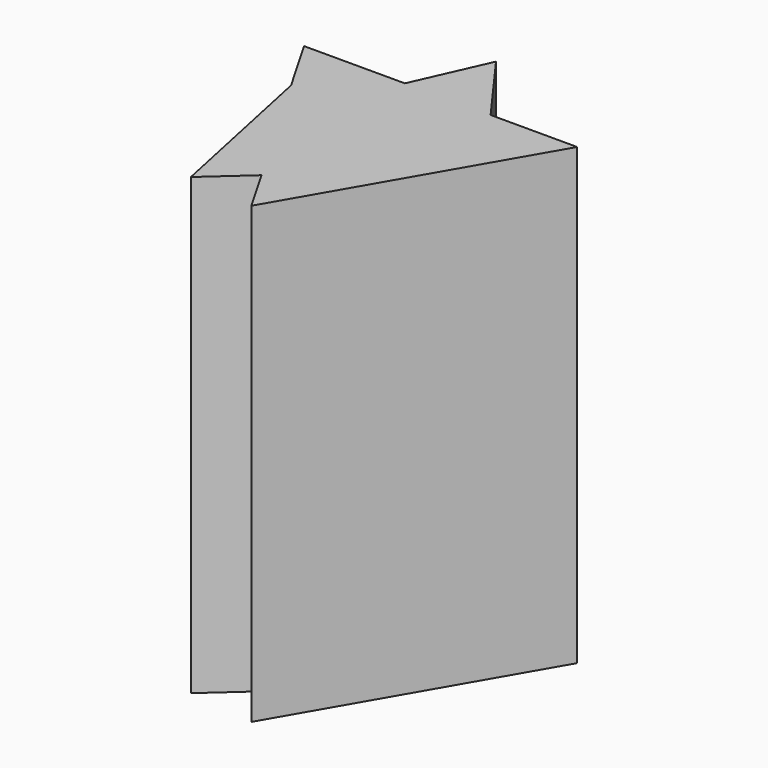
from build123d import *

# Parameters (mm, degrees)
F1_DEPTH = 2557.3923587799


with BuildPart() as f1:
    # F0 (on Top) → F1 (new body)
    with BuildSketch(Plane.XY):
        Polygon((-509.1280756642, 191.5158927441), (-1076.6804837309, 191.5158927441), (-887.7291746075, -135.7573748142), (-890.4924347892, -122.6169953793), (-679.7507416082, -191.5974846936), align=None)
        Polygon((51.318223764, -430.8927764446), (-455.1787140328, -884.9567493669), (-308.0508410931, -1139.7897005081), (202.0747097984, -256.2263281251), (-316.0918077312, -310.6312213201), align=None)
        Polygon((-455.1787140328, -884.9567493669), (-887.7291746075, -135.7573748142), (-686.5617632866, -1092.386841774), align=None)
        Polygon((-890.4924347892, -122.6169953793), (-887.7291746075, -135.7573748142), (-455.1787140328, -884.9567493669), (51.318223764, -430.8927764446), (-316.0918077312, -310.6312213201), (-753.2028653219, -356.5256965478), (-679.7507416082, -191.5974846936), align=None)
        Polygon((-26.5890275919, 191.5158927441), (-509.1280756642, 191.5158927441), (-679.7507416082, -191.5974846936), (-316.0918077312, -310.6312213201), (202.0747097984, -256.2263281251), (244.8386052615, -182.1570884534), align=None)
        Polygon((-325.7226250574, 603.3315283378), (-509.1280756642, 191.5158927441), (-26.5890275919, 191.5158927441), align=None)
        Polygon((460.5788015447, 191.5158927441), (-26.5890275919, 191.5158927441), (244.8386052615, -182.1570884534), align=None)
        Polygon((-316.0918077312, -310.6312213201), (-679.7507416082, -191.5974846936), (-753.2028653219, -356.5256965478), align=None)
    extrude(amount=F1_DEPTH)


solid = f1.part
